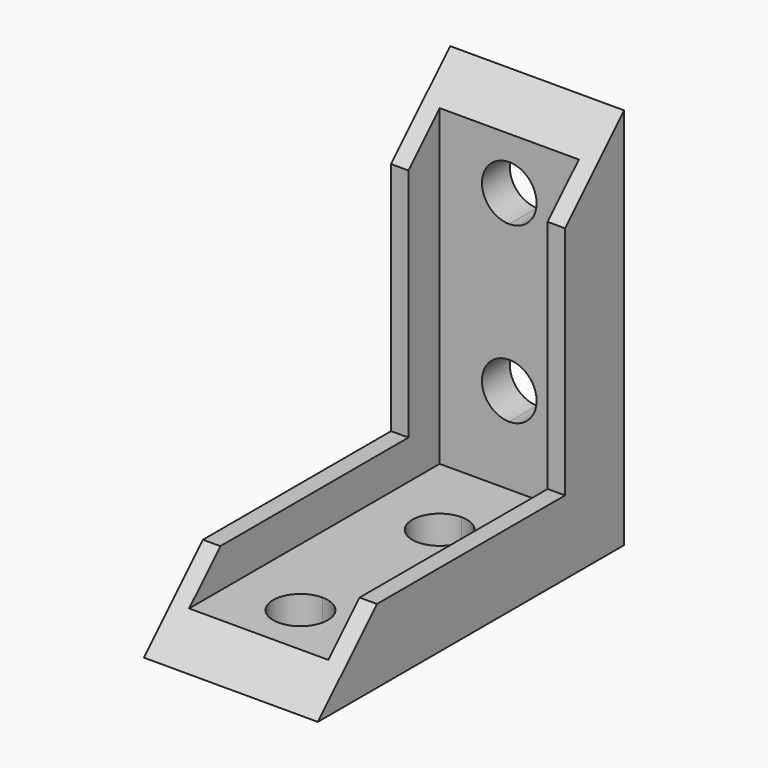
from build123d import *

# Parameters (mm, degrees)
F1_DEPTH = 2.54
F0_W     = 1.27
F0_H     = 9.02178
F2_DEPTH = 27.94
F4_DEPTH = 25.4
F6_DEPTH = 38.1


with BuildPart() as f1:
    # F0 (on Top) → F1 (new body)
    with BuildSketch(Plane.XY):
        with BuildLine():
            Line((-382.154137, 163.215905), (-382.154137, 154.194125))
            Line((-382.154137, 154.194125), (-377.074137, 154.194125))
            Line((-377.074137, 154.194125), (-377.074137, 158.550225))
            ThreePointArc((-377.074137, 158.550225), (-379.068037, 160.544125), (-377.074137, 162.538025))
            Line((-377.074137, 162.538025), (-377.074137, 171.250225))
            ThreePointArc((-377.074137, 171.250225), (-379.068037, 173.244125), (-377.074137, 175.238025))
            Line((-377.074137, 175.238025), (-377.074137, 179.594125))
            Line((-377.074137, 179.594125), (-382.154137, 179.594125))
            Line((-382.154137, 179.594125), (-382.154137, 163.215905))
        make_face()
        with BuildLine():
            Line((-377.074137, 158.550225), (-377.074137, 154.194125))
            Line((-377.074137, 154.194125), (-371.994137, 154.194125))
            Line((-371.994137, 154.194125), (-371.994137, 179.594125))
            Line((-371.994137, 179.594125), (-377.074137, 179.594125))
            Line((-377.074137, 179.594125), (-377.074137, 175.238025))
            ThreePointArc((-377.074137, 175.238025), (-375.664237, 174.654025), (-375.080237, 173.244125))
            ThreePointArc((-375.080237, 173.244125), (-375.664237, 171.834224), (-377.074137, 171.250225))
            Line((-377.074137, 171.250225), (-377.074137, 162.538025))
            ThreePointArc((-377.074137, 162.538025), (-375.664237, 161.954025), (-375.080237, 160.544125))
            ThreePointArc((-375.080237, 160.544125), (-375.664237, 159.134224), (-377.074137, 158.550225))
        make_face()
    extrude(amount=F1_DEPTH)

    # F0 (on Top) → F2 (join)
    with BuildSketch(Plane.XY):
        Polygon((-383.424137, 182.134125), (-383.424137, 163.215905), (-382.154137, 163.215905), (-382.154137, 179.594125), (-377.074137, 179.594125), (-377.074137, 182.134125), align=None)
        Polygon((-371.994137, 179.594125), (-371.994137, 154.194125), (-370.724137, 154.194125), (-370.724137, 182.134125), (-377.074137, 182.134125), (-377.074137, 179.594125), align=None)
        with Locations((-382.789137, 158.705015)):
            Rectangle(F0_W, F0_H)
    extrude(amount=F2_DEPTH)

    # F3 (on face) → F4 (cut)
    with BuildSketch(Plane.XZ.offset(-179.594125)):
        with BuildLine():
            Line((-377.074137, 21.59), (-377.074137, 19.5961))
            ThreePointArc((-377.074137, 19.5961), (-375.664237, 20.1801), (-375.080237, 21.59))
            ThreePointArc((-375.080237, 21.59), (-375.664237, 22.9999), (-377.074137, 23.5839))
            Line((-377.074137, 23.5839), (-377.074137, 21.59))
        make_face()
        with BuildLine():
            ThreePointArc((-377.074137, 23.5839), (-379.068037, 21.59), (-377.074137, 19.5961))
            Line((-377.074137, 19.5961), (-377.074137, 21.59))
            Line((-377.074137, 21.59), (-377.074137, 23.5839))
        make_face()
        with BuildLine():
            ThreePointArc((-377.074137, 10.8839), (-379.068037, 8.89), (-377.074137, 6.8961))
            Line((-377.074137, 6.8961), (-377.074137, 8.89))
            Line((-377.074137, 8.89), (-377.074137, 10.8839))
        make_face()
        with BuildLine():
            Line((-377.074137, 8.89), (-377.074137, 6.8961))
            ThreePointArc((-377.074137, 6.8961), (-375.664237, 7.4801), (-375.080237, 8.89))
            ThreePointArc((-375.080237, 8.89), (-375.664237, 10.2999), (-377.074137, 10.8839))
            Line((-377.074137, 10.8839), (-377.074137, 8.89))
        make_face()
    extrude(amount=-F4_DEPTH, mode=Mode.SUBTRACT)

    # F5 (on face) → F6 (cut)
    with BuildSketch(Plane(origin=(-383.424137, 0, 0), x_dir=(0, -1, 0), z_dir=(-1, 0, 0))):
        Polygon((-159.582278, 5.388154), (-154.194125, 0), (-154.194125, 27.94), (-182.134125, 27.94), (-176.745971, 22.551846), (-176.745971, 5.388154), align=None)
    extrude(amount=-F6_DEPTH, mode=Mode.SUBTRACT)


solid = f1.part
